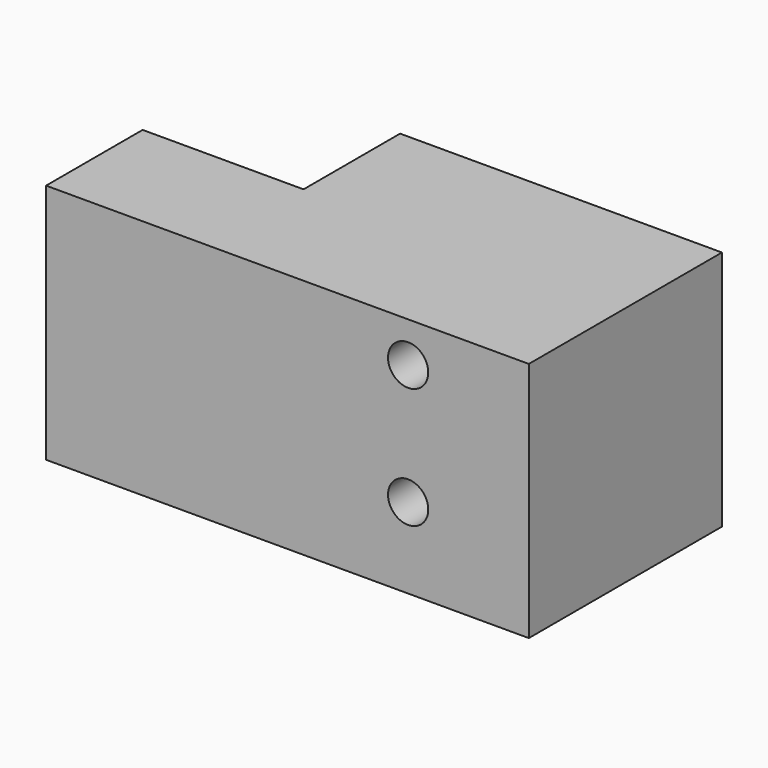
from build123d import *

# Parameters (mm, degrees)
F0_W     = 101.6
F0_H     = 38.1
F1_DEPTH = 76.2
F2_R     = 6.35
F3_DEPTH = 76.2


with BuildPart() as f1:
    # F0 (on Top) → F1 (new body)
    with BuildSketch(Plane.XY):
        Polygon((76.2, -23.060526), (76.2, 15.039474), (-25.4, 15.039474), (-76.2, 15.039474), (-76.2, -23.060526), align=None)
        with Locations((25.4, 34.089474)):
            Rectangle(F0_W, F0_H)
    extrude(amount=F1_DEPTH)

    # F2 (on face) → F3 (cut)
    with BuildSketch(Plane(origin=(0, 53.139474, 0), x_dir=(-1, 0, 0), z_dir=(0, 1, 0))):
        with Locations((-38.1, 25.4)):
            Circle(F2_R)
        with Locations((-38.1, 63.5)):
            Circle(F2_R)
    extrude(amount=-F3_DEPTH, mode=Mode.SUBTRACT)


solid = f1.part
